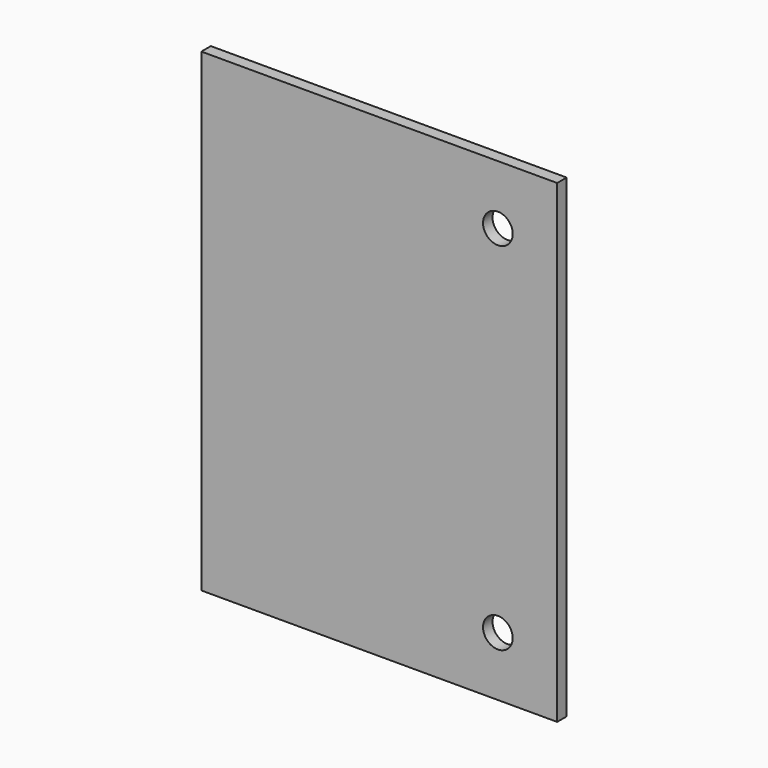
from build123d import *

# Parameters (mm, degrees)
F0_W     = 76.2
F0_H     = 101.6
F0_R     = 3.175
F1_DEPTH = 1.27


with BuildPart() as f1:
    # F0 (on Front) → F1 (new body, symmetric)
    with BuildSketch(Plane.XZ):
        Rectangle(F0_W, F0_H)
        with Locations((25.4, -38.1)):
            Circle(F0_R, mode=Mode.SUBTRACT)
        with Locations((25.4, 38.1)):
            Circle(F0_R, mode=Mode.SUBTRACT)
    extrude(amount=F1_DEPTH, both=True)


solid = f1.part
